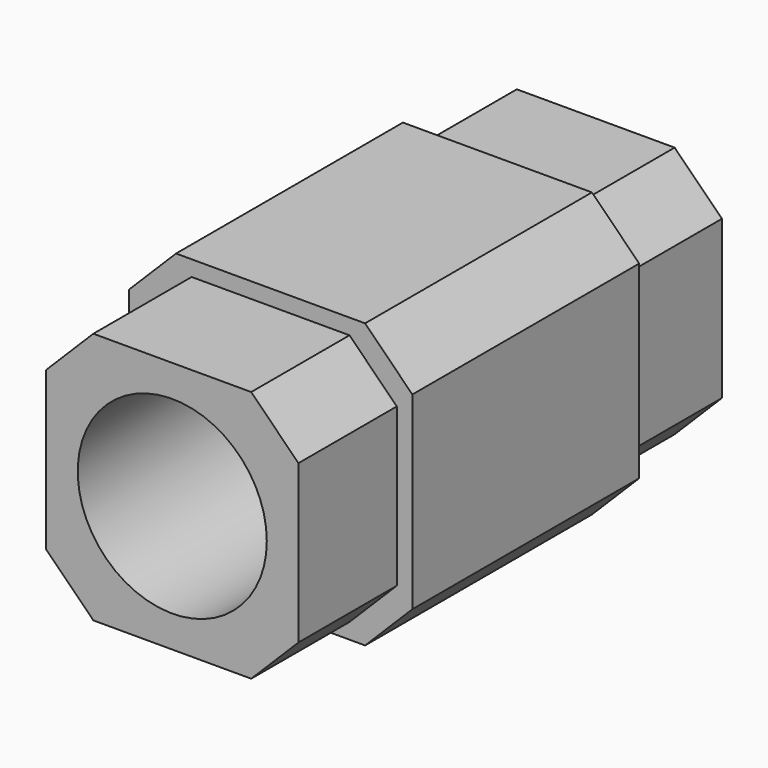
from build123d import *

# Parameters (mm, degrees)
F0_W     = 26.7
F0_H     = 26.7
F1_DEPTH = 6.5
F2_W     = 30
F2_H     = 30
F3_DEPTH = 30
F4_W     = 26.7
F4_H     = 26.7
F5_DEPTH = 13
F6_SIZE  = 5
F7_R     = 10
F8_DEPTH = 56.001


with BuildPart() as f1:
    # F0 (on Front) → F1 (new body, symmetric)
    with BuildSketch(Plane.XZ):
        Rectangle(F0_W, F0_H)
    extrude(amount=F1_DEPTH, both=True)

    # F2 (on face) → F3 (join)
    with BuildSketch(Plane.XZ.offset(6.5)):
        Rectangle(F2_W, F2_H)
    extrude(amount=F3_DEPTH)

    # F4 (on face) → F5 (join)
    with BuildSketch(Plane.XZ.offset(36.5)):
        Rectangle(F4_W, F4_H)
    extrude(amount=F5_DEPTH)

    # F6
    f6_edges = [f1.edges().sort_by_distance(p)[0] for p in [
        (13.35, -43, 13.35),
        (13.35, 0, 13.35),
        (13.35, -43, -13.35),
        (13.35, 0, -13.35),
        (-13.35, -43, 13.35),
        (-13.35, -43, -13.35),
        (-13.35, 0, -13.35),
        (-13.35, 0, 13.35),
        (15, -21.5, 15),
        (-15, -21.5, 15),
        (15, -21.5, -15),
        (-15, -21.5, -15),
    ]]
    chamfer(f6_edges, length=F6_SIZE)

    # F7 (on face) → F8 (cut, through all)
    with BuildSketch(Plane.XZ.offset(49.5)):
        Circle(F7_R)
    extrude(amount=-F8_DEPTH, mode=Mode.SUBTRACT)


solid = f1.part
